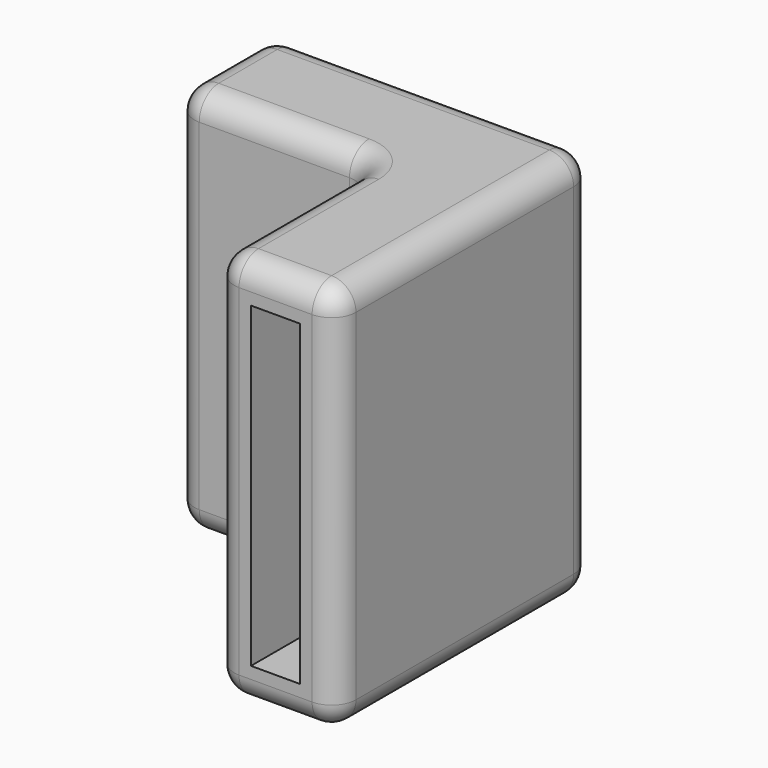
from build123d import *

# Parameters (mm, degrees)
F0_W     = 35
F0_H     = 10.1
F0_W_2   = 10.1
F0_H_2   = 35
F1_DEPTH = 80
F3_W     = 10.1
F3_H     = 65.1
F4_DEPTH = 35
F2_W     = 10.1
F2_H     = 65.1
F5_DEPTH = 35
F6_R     = 5


with BuildPart() as f1:
    # F0 (on Top) → F1 (new body)
    with BuildSketch(Plane.XY):
        with BuildLine():
            Line((0, 7.45), (0, 0))
            Line((0, 0), (35.8354191061, 0))
            ThreePointArc((35.8354191061, 0), (39.370953012, -1.4644660941), (40.8354191061, -5))
            Line((40.8354191061, -5), (40.8354191061, -40.8354191061))
            Line((40.8354191061, -40.8354191061), (48.2854191061, -40.8354191061))
            Line((48.2854191061, -40.8354191061), (48.2854191061, -5.8354191061))
            Line((48.2854191061, -5.8354191061), (58.3854191061, -5.8354191061))
            Line((58.3854191061, -5.8354191061), (58.3854191061, -40.8354191061))
            Line((58.3854191061, -40.8354191061), (65.8354191061, -40.8354191061))
            Line((65.8354191061, -40.8354191061), (65.8354191061, 20))
            ThreePointArc((65.8354191061, 20), (64.370953012, 23.5355339059), (60.8354191061, 25))
            Line((60.8354191061, 25), (0, 25))
            Line((0, 25), (0, 17.55))
            Line((0, 17.55), (35, 17.55))
            Line((35, 17.55), (35, 7.45))
            Line((35, 7.45), (0, 7.45))
        make_face()
        with Locations((17.5, 12.5)):
            Rectangle(F0_W, F0_H)
        with Locations((53.3354191061, -23.3354191061)):
            Rectangle(F0_W_2, F0_H_2)
    extrude(amount=F1_DEPTH)

    # F3 (on face) → F4 (cut)
    with BuildSketch(Plane.XZ.offset(40.8354191061)):
        with Locations((53.3354191061, 40)):
            Rectangle(F3_W, F3_H)
    extrude(amount=-F4_DEPTH, mode=Mode.SUBTRACT)

    # F2 (on face) → F5 (cut)
    with BuildSketch(Plane(origin=(0, 0, 0), x_dir=(0, -1, 0), z_dir=(-1, 0, 0))):
        with Locations((-12.5, 40)):
            Rectangle(F2_W, F2_H)
    extrude(amount=-F5_DEPTH, mode=Mode.SUBTRACT)

    # F6
    f6_edges = [f1.edges().sort_by_distance(p)[0] for p in [
        (64.370953, 23.535534, 80),
        (30.41771, 25, 80),
        (0, 12.5, 80),
        (17.91771, 0, 80),
        (39.370953, -1.464466, 80),
        (40.835419, -22.91771, 80),
        (53.335419, -40.835419, 80),
        (65.835419, -10.41771, 80),
        (64.370953, 23.535534, 0),
        (30.41771, 25, 0),
        (0, 12.5, 0),
        (17.91771, 0, 0),
        (39.370953, -1.464466, 0),
        (40.835419, -22.91771, 0),
        (53.335419, -40.835419, 0),
        (65.835419, -10.41771, 0),
        (65.835419, -40.835419, 40),
        (40.835419, -40.835419, 40),
        (0, 0, 40),
        (0, 25, 40),
    ]]
    fillet(f6_edges, radius=F6_R)


solid = f1.part
